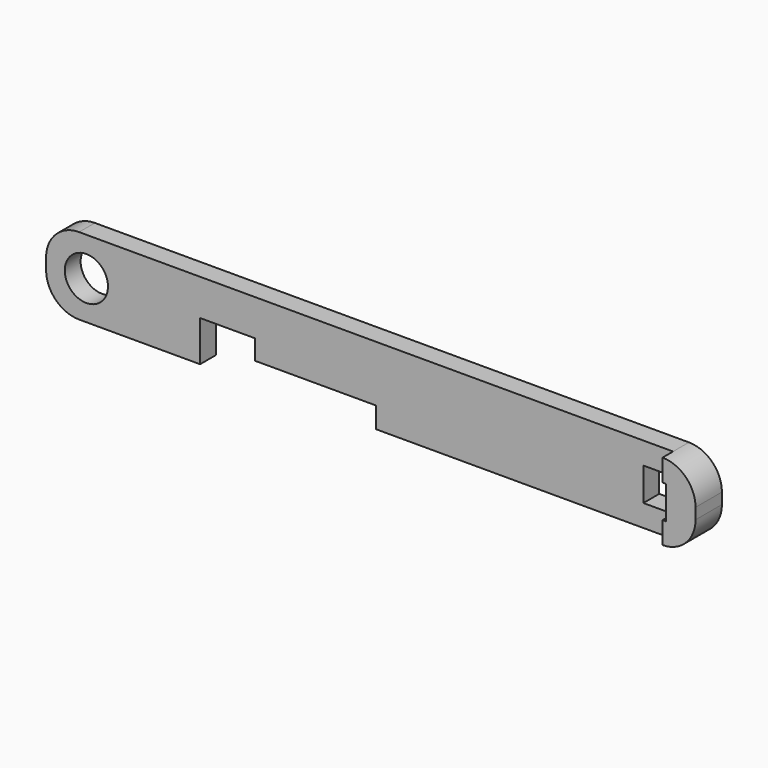
from build123d import *

# Parameters (mm, degrees)
F0_R     = 1.962069
F0_W     = 3
F0_H     = 3
F1_DEPTH = 1.8
F3_DEPTH = 1.2


with BuildPart() as f1:
    # F0 (on Front) → F1 (new body)
    with BuildSketch(Plane.XZ):
        with BuildLine():
            Line((27, 7), (-27, 7))
            ThreePointArc((-27, 7), (-29.12132, 6.12132), (-30, 4))
            Line((-30, 4), (-30, 3))
            ThreePointArc((-30, 3), (-29.12132, 0.87868), (-27, 0))
            Line((-27, 0), (-16, 0))
            Line((-16, 0), (-16, 1.9))
            Line((-16, 1.9), (-16, 3.7))
            Line((-16, 3.7), (-11, 3.7))
            Line((-11, 3.7), (-11, 1.9))
            Line((-11, 1.9), (0, 1.9))
            Line((0, 1.9), (0, 0))
            Line((0, 0), (27, 0))
            ThreePointArc((27, 0), (29.12132, 0.87868), (30, 3))
            Line((30, 3), (30, 4))
            ThreePointArc((30, 4), (29.12132, 6.12132), (27, 7))
        make_face()
        with Locations((-26.337931, 3.5)):
            Circle(F0_R, mode=Mode.SUBTRACT)
        with Locations((25.8, 3.5)):
            Rectangle(F0_W, F0_H, mode=Mode.SUBTRACT)
    extrude(amount=F1_DEPTH)

    # F2 (on face) → F3 (join)
    with BuildSketch(Plane.XZ.offset(1.8)):
        with BuildLine():
            Line((27, 2), (27, 0))
            ThreePointArc((27, 0), (29.12132, 0.87868), (30, 3))
            Line((30, 3), (30, 4))
            ThreePointArc((30, 4), (29.12132, 6.12132), (27, 7))
            Line((27, 7), (27, 5))
            Line((27, 5), (27.3, 5))
            Line((27.3, 5), (27.3, 2))
            Line((27.3, 2), (27, 2))
        make_face()
    extrude(amount=F3_DEPTH)


solid = f1.part
